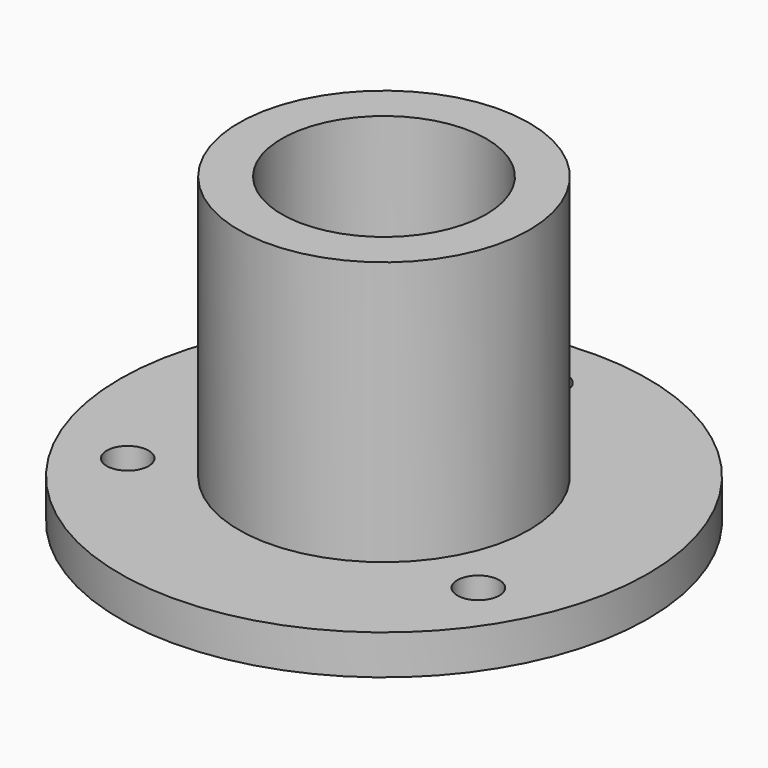
from build123d import *

# Parameters (mm, degrees)
F0_R     = 11
F0_R_2   = 7.75
F1_DEPTH = 23
F0_R_3   = 20
F0_R_4   = 1.5875
F2_DEPTH = 3


with BuildPart() as f1:
    # F0 (on Top) → F1 (new body)
    with BuildSketch(Plane.XY):
        Circle(F0_R)
        Circle(F0_R_2, mode=Mode.SUBTRACT)
    extrude(amount=F1_DEPTH)

    # F0 (on Top) → F2 (join)
    with BuildSketch(Plane.XY):
        Circle(F0_R_3)
        with Locations((-13.282665, -7.66875)):
            Circle(F0_R_4, mode=Mode.SUBTRACT)
        with Locations((13.282665, -7.66875)):
            Circle(F0_R_4, mode=Mode.SUBTRACT)
        Circle(F0_R, mode=Mode.SUBTRACT)
        with Locations((0, 15.3375)):
            Circle(F0_R_4, mode=Mode.SUBTRACT)
    extrude(amount=F2_DEPTH)


solid = f1.part
